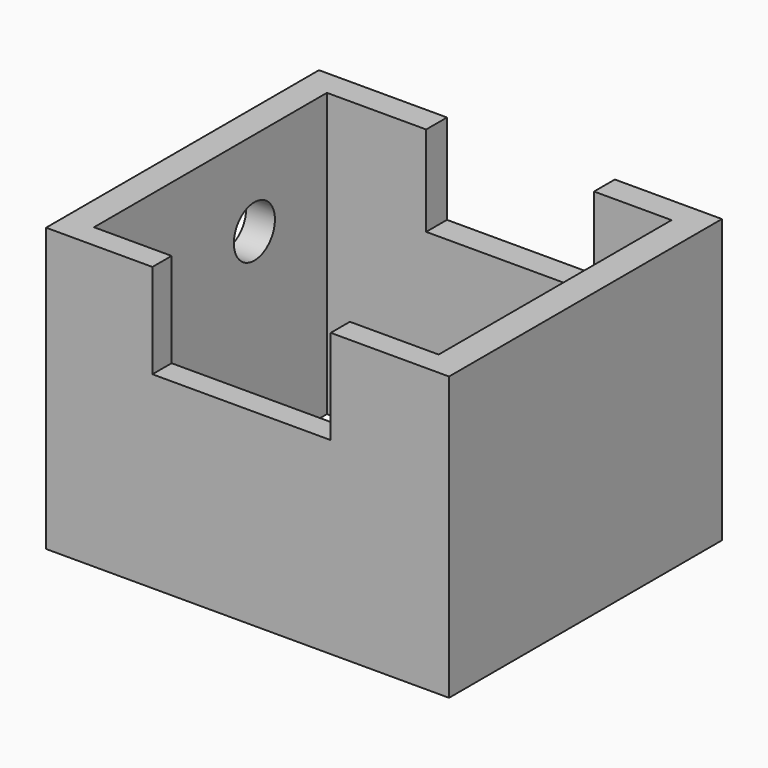
from build123d import *

# Parameters (mm, degrees)
F0_W      = 108.549212
F0_H      = 91.886736
F1_DEPTH  = 76.2
F2_W      = 92.835255
F2_H      = 78.426812
F3_DEPTH  = 82.55
F5_R      = 6.91847
F6_DEPTH  = 25.4
F7_W      = 48.028812
F7_H      = 25.447967
F8_DEPTH  = 25.4
F9_W      = 45.221382
F9_H      = 24.2807
F10_DEPTH = 25.4


with BuildPart() as f1:
    # F0 (on Top) → F1 (new body)
    with BuildSketch(Plane.XY):
        with Locations((6.926911, 2.629757)):
            Rectangle(F0_W, F0_H)
    extrude(amount=F1_DEPTH)

    # F2 (on Top) → F3 (cut)
    with BuildSketch(Plane.XY):
        with Locations((6.824679, 2.350463)):
            Rectangle(F2_W, F2_H)
    extrude(amount=F3_DEPTH, mode=Mode.SUBTRACT)

    # F5 (on face) → F6 (cut)
    with BuildSketch(Plane(origin=(-47.347695, 0, 0), x_dir=(0, -1, 0), z_dir=(-1, 0, 0))):
        with Locations((-17.136907, 53.27322)):
            Circle(F5_R)
    extrude(amount=-F6_DEPTH, mode=Mode.SUBTRACT)

    # F7 (on face) → F8 (cut)
    with BuildSketch(Plane.XZ.offset(43.313611)):
        with Locations((5.315581, 63.476017)):
            Rectangle(F7_W, F7_H)
    extrude(amount=-F8_DEPTH, mode=Mode.SUBTRACT)

    # F9 (on face) → F10 (cut)
    with BuildSketch(Plane(origin=(0, 48.573125, 0), x_dir=(-1, 0, 0), z_dir=(0, 1, 0))):
        with Locations((-9.750217, 64.05965)):
            Rectangle(F9_W, F9_H)
    extrude(amount=-F10_DEPTH, mode=Mode.SUBTRACT)


solid = f1.part
